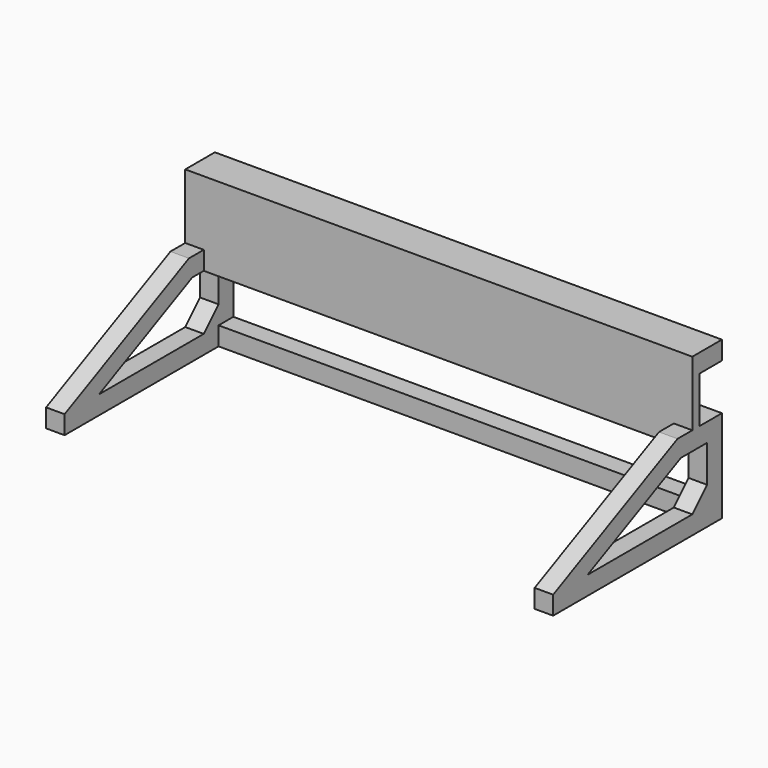
from build123d import *

# Parameters (mm, degrees)
F0_W      = 137
F0_H      = 60
F0_W_2    = 127
F0_H_2    = 50
F1_DEPTH  = 25
F3_DEPTH  = 137.001
F4_DEPTH  = 10
F6_DEPTH  = 17.5
F7_W      = 137
F7_H      = 5
F8_DEPTH  = 7.5
F11_DEPTH = 137.001
F12_DEPTH = 5
F14_DEPTH = 137.001
F9_W      = 127
F9_H      = 15
F15_DEPTH = 57.001
F17_DEPTH = 137.001
F18_DEPTH = 5
F20_DEPTH = 5
F22_DEPTH = 5


with BuildPart() as f1:
    # F0 (on Top) → F1 (new body)
    with BuildSketch(Plane.XY):
        Rectangle(F0_W, F0_H)
        Rectangle(F0_W_2, F0_H_2, mode=Mode.SUBTRACT)
    extrude(amount=F1_DEPTH)

    # F2 (on face) → F3 (cut, through all)
    with BuildSketch(Plane(origin=(-68.5, 0, 0), x_dir=(0, -1, 0), z_dir=(-1, 0, 0))):
        Polygon((30, 25), (-25, 25), (30, 5), align=None)
    extrude(amount=-F3_DEPTH, mode=Mode.SUBTRACT)

    # F4 (add): a face of the model
    f4_faces = [f1.faces().sort_by_distance(p)[0] for p in [
        (0, 30, 12.5),
    ]]
    extrude(f4_faces, amount=F4_DEPTH)

    # F5 (on face) → F6 (join)
    with BuildSketch(Plane.XY.offset(25)):
        Polygon((68.5, 32.5), (-68.5, 32.5), (-68.5, 25), (-63.5, 25), (63.5, 25), (68.5, 25), align=None)
    extrude(amount=F6_DEPTH)

    # F7 (on face) → F8 (join, through all)
    with BuildSketch(Plane(origin=(0, 32.5, 0), x_dir=(-1, 0, 0), z_dir=(0, 1, 0))):
        with Locations((0, 40)):
            Rectangle(F7_W, F7_H)
    extrude(amount=F8_DEPTH)

    # F10 (on face) → F11 (cut, through all)
    with BuildSketch(Plane.YZ.offset(68.5)):
        Polygon((-30, 0), (-17, 0), (-17, 9.7272727273), (-30, 5), align=None)
    extrude(amount=-F11_DEPTH, mode=Mode.SUBTRACT)

    # F12 (cut): a face of the model
    f12_faces = [f1.faces().sort_by_distance(p)[0] for p in [
        (0, 25, 21.6425527142),
    ]]
    extrude(f12_faces, amount=-F12_DEPTH, mode=Mode.SUBTRACT)

    # F13 (on face) → F14 (cut, through all)
    with BuildSketch(Plane(origin=(-68.5, 0, 0), x_dir=(0, -1, 0), z_dir=(-1, 0, 0))):
        Polygon((-25, 25), (17, 5), (17, 9.7272727273), align=None)
    extrude(amount=-F14_DEPTH, mode=Mode.SUBTRACT)

    # F9 (on face) → F15 (cut, through all)
    with BuildSketch(Plane(origin=(0, 40, 0), x_dir=(-1, 0, 0), z_dir=(0, 1, 0))):
        with Locations((0, 12.5)):
            Rectangle(F9_W, F9_H)
    extrude(amount=-F15_DEPTH, mode=Mode.SUBTRACT)

    # F16 (on face) → F17 (cut, through all)
    with BuildSketch(Plane(origin=(-68.5, 0, 0), x_dir=(0, -1, 0), z_dir=(-1, 0, 0))):
        Polygon((5.3702966504, 5), (-9.2771325107, 11.9749662672), (-26.1297033496, 20), (-35, 20), (-35, 5), align=None)
    extrude(amount=-F17_DEPTH, mode=Mode.SUBTRACT)

    # F18 (cut, through all): a face of the model
    f18_faces = [f1.faces().sort_by_distance(p)[0] for p in [
        (0, 30, 2.5),
    ]]
    extrude(f18_faces, amount=-F18_DEPTH, mode=Mode.SUBTRACT)

    # F19 (on face) → F20 (join)
    with BuildSketch(Plane(origin=(-68.5, 0, 0), x_dir=(0, -1, 0), z_dir=(-1, 0, 0))):
        Polygon((-35, 5), (-30, 5), (-35, 10), align=None)
    extrude(amount=-F20_DEPTH)

    # F21 (on face) → F22 (join)
    with BuildSketch(Plane.YZ.offset(68.5)):
        Polygon((35, 10), (30, 5), (35, 5), align=None)
    extrude(amount=-F22_DEPTH)


solid = f1.part
